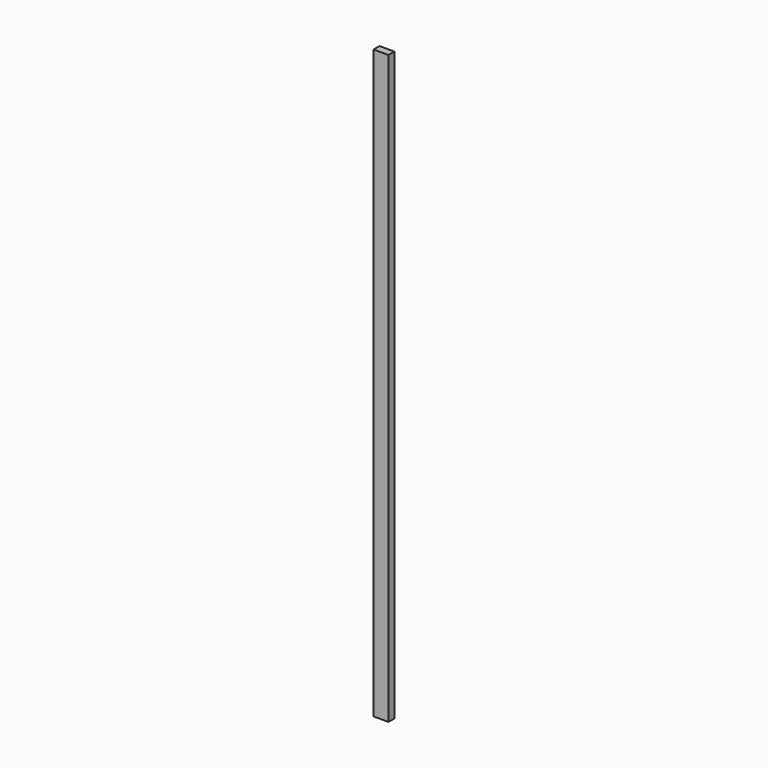
from build123d import *

# Parameters (mm, degrees)
PAD_DEPTH = 750


with BuildPart() as part:
    # Sketch → Pad (new body, symmetric)
    with BuildSketch(Plane.XY):
        with BuildLine():
            Line((-19.05, 9.025), (-19.05, -9.025))
            ThreePointArc((-19.05, -9.025), (-18.903553, -9.378553), (-18.55, -9.525))
            Line((-18.55, -9.525), (18.55, -9.525))
            ThreePointArc((18.55, -9.525), (18.903553, -9.378553), (19.05, -9.025))
            Line((19.05, -9.025), (19.05, 9.025))
            ThreePointArc((19.05, 9.025), (18.903553, 9.378553), (18.55, 9.525))
            Line((18.55, 9.525), (-18.55, 9.525))
            ThreePointArc((-18.55, 9.525), (-18.903553, 9.378553), (-19.05, 9.025))
        make_face()
    extrude(amount=PAD_DEPTH, both=True)


solid = part.part
